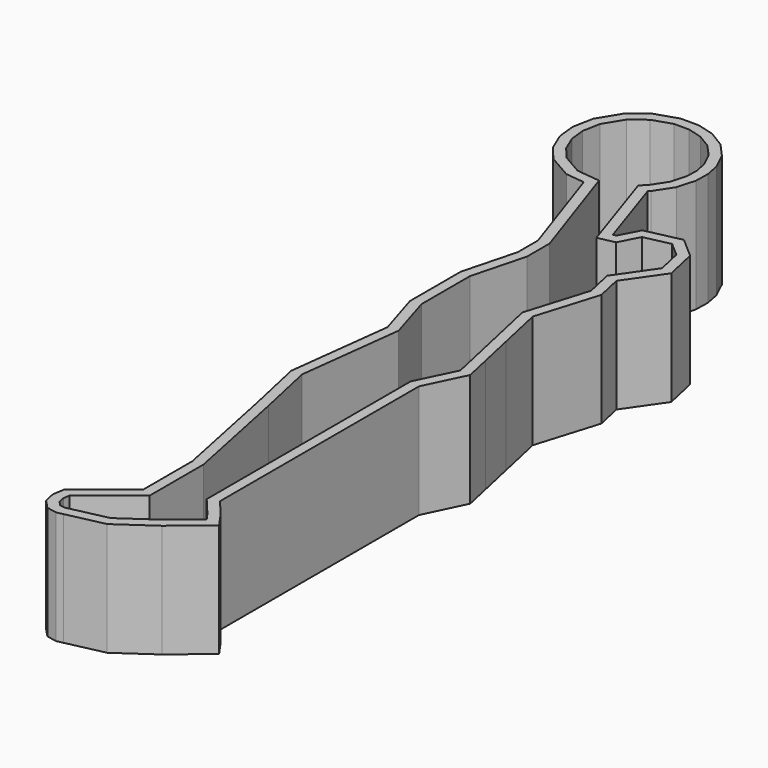
from build123d import *

# Parameters (mm, degrees)
F1_DEPTH = 10
F2_T     = 1
F3_R     = 3.2218950318
F4_DEPTH = 25.4
F5_R     = 5.0145008795
F6_DEPTH = 25.4
F7_W     = 2.708992688
F7_H     = 32.9594105715
F8_DEPTH = 25


with BuildPart() as f1:
    # F0 (on Top) → F1 (new body)
    with BuildSketch(Plane.XY):
        Polygon((-7.9906535461, 28.9775509901), (-5.7124293756, 28.7289765854), (-2.177747665, 18.313806504), (-2.177747665, 15.5732491985), (-3.5480263177, 10.3661902249), (-3.5480263177, 4.4739907607), (-2.177747665, 0), (-3.410998499, -10.1879928261), (-2.177747665, -15.8061366528), (0, -26.4196246862), (0, -29.9038495868), (0, -32.9525433481), (-4.7522801906, -36.7271192372), (-4.846881947, -37.3447827538), (-4.7036297619, -37.9973761737), (-4.3055904098, -38.4158245646), (-3.8245406306, -38.5066020873), (-3.410998499, -38.4158245646), (0, -37.6670689483), (3.2324001659, -35.4205369949), (5.8037610725, -33.2740206294), (5.2963984199, -32.5517579913), (3.7367703403, -30.6914262474), (3.7367703403, -30.091624707), (3.7367703403, -28.8444478065), (3.7367703403, -22.7698273957), (3.7367703403, -15.2410743758), (3.7367703403, -5.9498115443), (5.555216223, -2.1752356552), (5.0777255662, 0), (4.3131460861, 3.4830850037), (3.2794470092, 8.1921595303), (5.119686015, 14.2296506092), (4.5323909172, 16.9051065964), (7.0069744252, 20.4722173512), (6.4797433326, 22.8740483706), (5.119686015, 24.0607738481), (2.6262372261, 23.513431542), (1.6395514831, 21.6216556728), (0, 21.2617542006), (-2.8885214715, 29.960425262), (-2.3250187241, 30.496619276), (-1.3758151717, 31.9517953008), (-0.9570455703, 33.4362002962), (-0.9286604067, 34.6111891241), (-1.1501351436, 35.753425343), (-1.8199630103, 37.1648714688), (-2.8861434893, 38.3458743138), (-4.2181453118, 39.1544558587), (-5.6038486027, 39.5364638273), (-7.0804168612, 39.5364638273), (-8.9181209402, 38.937315781), (-10.336358338, 37.8366215939), (-11.4427582769, 36.0244784539), (-11.7720668322, 34.3284905467), (-11.6132239292, 32.8387650441), (-10.9819831447, 31.3281121322), (-9.9742822169, 30.1140705775), align=None)
    extrude(amount=F1_DEPTH)

    # F2
    f2_openings = [f1.faces().sort_by_distance(p)[0] for p in [
        (-0.518875, 3.902711, 10),
    ]]
    offset(amount=F2_T, openings=f2_openings, kind=Kind.INTERSECTION)

    # F3 (on Top) → F4 (cut)
    with BuildSketch(Plane.XY):
        with Locations((0, 7.7414768748)):
            Circle(F3_R)
    extrude(amount=-F4_DEPTH, mode=Mode.SUBTRACT)

    # F5 (on Top) → F6 (cut)
    with BuildSketch(Plane.XY):
        with Locations((-6.3707926311, 34.1742038727)):
            Circle(F5_R)
    extrude(amount=-F6_DEPTH, mode=Mode.SUBTRACT)

    # F7 (on Top) → F8 (cut)
    with BuildSketch(Plane.XY):
        with Locations((1.9566247938, -18.3495350066)):
            Rectangle(F7_W, F7_H)
    extrude(amount=-F8_DEPTH, mode=Mode.SUBTRACT)


solid = f1.part
